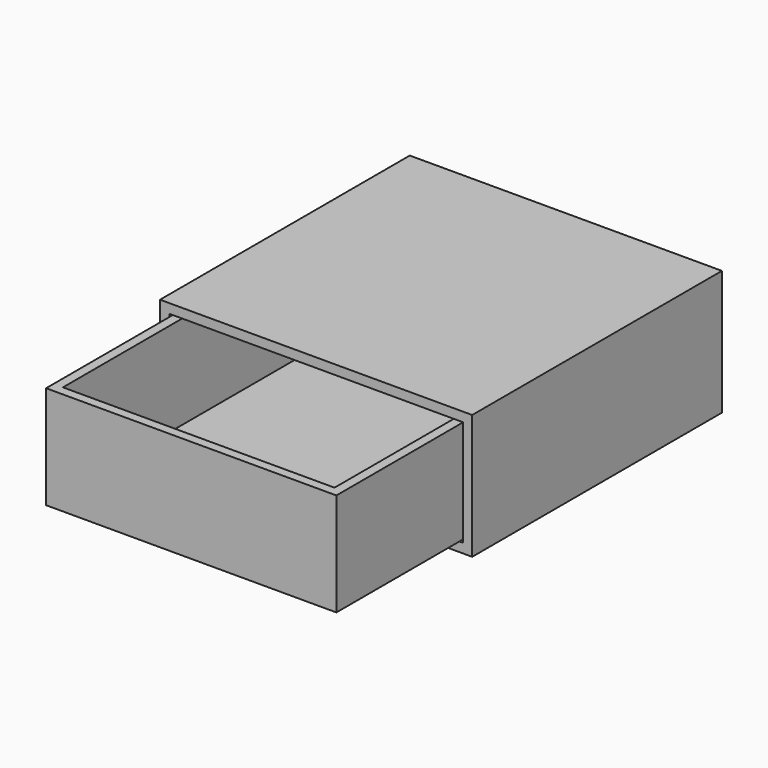
from build123d import *

# Parameters (mm, degrees)
F0_W     = 100
F0_H     = 40
F0_W_2   = 94
F0_H_2   = 34
F1_DEPTH = 100
F2_W     = 93
F2_H     = 33
F3_DEPTH = 50
F4_T     = -3


with BuildPart() as f1:
    # F0 (on Front) → F1 (new body)
    with BuildSketch(Plane.XZ):
        with Locations((50, 20)):
            Rectangle(F0_W, F0_H)
        with Locations((50, 20)):
            Rectangle(F0_W_2, F0_H_2, mode=Mode.SUBTRACT)
    extrude(amount=F1_DEPTH)


with BuildPart() as f3:
    # F2 (on face) → F3 (new body, symmetric)
    with BuildSketch(Plane.XZ.offset(100)):
        with Locations((50, 20)):
            Rectangle(F2_W, F2_H)
    extrude(amount=F3_DEPTH, both=True)

    # F4
    f4_openings = [f3.faces().sort_by_distance(p)[0] for p in [
        (50, -100, 36.5),
    ]]
    offset(amount=F4_T, openings=f4_openings)


solid = Compound([f1.part, f3.part])
